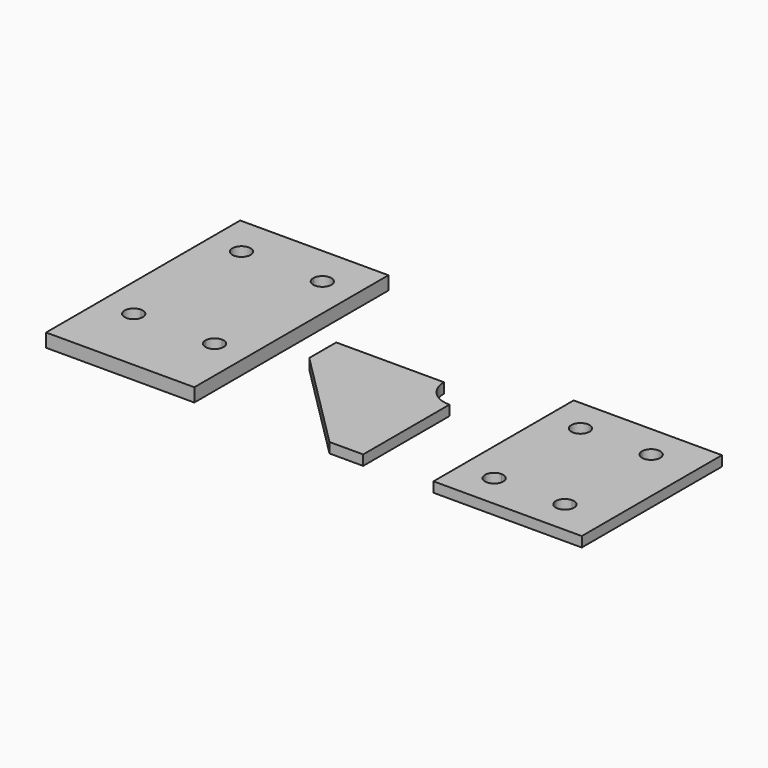
from build123d import *

# Parameters (mm, degrees)
F1_DEPTH = 20
F3_DEPTH = 15


with BuildPart() as f1:
    # F0 (on Top) → F1 (new body)
    with BuildSketch(Plane.XY):
        Polygon((-65.4414370656, 394.4187095761), (-65.4414370656, 34.4187095761), (-15.4414370656, 34.4187095761), (154.5585629344, 34.4187095761), (154.5585629344, 394.4187095761), align=None)
        with BuildLine():
            Line((91.0585629344, 134.4187095761), (-1.9414370656, 134.4187095761))
            ThreePointArc((-1.9414370656, 134.4187095761), (-24.9873786116, 124.8727680301), (-15.4414370656, 147.9187095761))
            Line((-15.4414370656, 147.9187095761), (-15.4414370656, 320.9187095761))
            ThreePointArc((-15.4414370656, 320.9187095761), (-24.9873786116, 343.9646511221), (-1.9414370656, 334.4187095761))
            Line((-1.9414370656, 334.4187095761), (91.0585629344, 334.4187095761))
            ThreePointArc((91.0585629344, 334.4187095761), (104.5585629344, 347.9187095761), (118.0585629344, 334.4187095761))
            ThreePointArc((118.0585629344, 334.4187095761), (114.1045044804, 324.8727680301), (104.5585629344, 320.9187095761))
            Line((104.5585629344, 320.9187095761), (104.5585629344, 147.9187095761))
            ThreePointArc((104.5585629344, 147.9187095761), (114.1045044804, 143.9646511221), (118.0585629344, 134.4187095761))
            ThreePointArc((118.0585629344, 134.4187095761), (104.5585629344, 120.9187095761), (91.0585629344, 134.4187095761))
        make_face(mode=Mode.SUBTRACT)
        with BuildLine():
            ThreePointArc((-15.4414370656, 147.9187095761), (-5.8954955196, 143.9646511221), (-1.9414370656, 134.4187095761))
            Line((-1.9414370656, 134.4187095761), (91.0585629344, 134.4187095761))
            ThreePointArc((91.0585629344, 134.4187095761), (95.0126213884, 143.9646511221), (104.5585629344, 147.9187095761))
            Line((104.5585629344, 147.9187095761), (104.5585629344, 320.9187095761))
            ThreePointArc((104.5585629344, 320.9187095761), (95.0126213884, 324.8727680301), (91.0585629344, 334.4187095761))
            Line((91.0585629344, 334.4187095761), (-1.9414370656, 334.4187095761))
            ThreePointArc((-1.9414370656, 334.4187095761), (-5.8954955196, 324.8727680301), (-15.4414370656, 320.9187095761))
            Line((-15.4414370656, 320.9187095761), (-15.4414370656, 147.9187095761))
        make_face()
    extrude(amount=F1_DEPTH)


with BuildPart() as f3:
    # F2 (on Top) → F3 (new body)
    with BuildSketch(Plane.XY):
        with BuildLine():
            Line((206.6609114408, 182.4657000601), (356.6609114408, 32.4657000601))
            Line((356.6609114408, 32.4657000601), (406.6609114408, 32.4657000601))
            Line((406.6609114408, 32.4657000601), (406.6609114408, 192.4657000601))
            ThreePointArc((406.6609114408, 192.4657000601), (378.3766401934, 204.1814288127), (366.6609114408, 232.4657000601))
            Line((366.6609114408, 232.4657000601), (206.6609114408, 232.4657000601))
            Line((206.6609114408, 232.4657000601), (206.6609114408, 182.4657000601))
        make_face()
    extrude(amount=F3_DEPTH)


with BuildPart() as f3b:
    # F2 (on Top) → F3, piece 2 (new body)
    with BuildSketch(Plane.XY):
        with BuildLine():
            ThreePointArc((562.4129056931, 94.2423118502), (571.9588472391, 90.2882533962), (575.9129056931, 80.7423118502))
            Line((575.9129056931, 80.7423118502), (653.9129056931, 80.7423118502))
            ThreePointArc((653.9129056931, 80.7423118502), (657.866964147, 90.2882533962), (667.4129056931, 94.2423118502))
            Line((667.4129056931, 94.2423118502), (667.4129056931, 227.2423118502))
            ThreePointArc((667.4129056931, 227.2423118502), (657.866964147, 231.1963703042), (653.9129056931, 240.7423118502))
            Line((653.9129056931, 240.7423118502), (575.9129056931, 240.7423118502))
            ThreePointArc((575.9129056931, 240.7423118502), (571.9588472391, 231.1963703042), (562.4129056931, 227.2423118502))
            Line((562.4129056931, 227.2423118502), (562.4129056931, 94.2423118502))
        make_face()
        with BuildLine():
            Line((562.4129056931, 67.2423118502), (562.4129056931, 30.7423118502))
            Line((562.4129056931, 30.7423118502), (732.4129056931, 30.7423118502))
            Line((732.4129056931, 30.7423118502), (732.4129056931, 290.7423118502))
            Line((732.4129056931, 290.7423118502), (512.4129056931, 290.7423118502))
            Line((512.4129056931, 290.7423118502), (512.4129056931, 80.7423118502))
            Line((512.4129056931, 80.7423118502), (548.9129056931, 80.7423118502))
            ThreePointArc((548.9129056931, 80.7423118502), (552.866964147, 90.2882533962), (562.4129056931, 94.2423118502))
            Line((562.4129056931, 94.2423118502), (562.4129056931, 227.2423118502))
            ThreePointArc((562.4129056931, 227.2423118502), (552.866964147, 250.2882533962), (575.9129056931, 240.7423118502))
            Line((575.9129056931, 240.7423118502), (653.9129056931, 240.7423118502))
            ThreePointArc((653.9129056931, 240.7423118502), (667.4129056931, 254.2423118502), (680.9129056931, 240.7423118502))
            ThreePointArc((680.9129056931, 240.7423118502), (676.9588472391, 231.1963703042), (667.4129056931, 227.2423118502))
            Line((667.4129056931, 227.2423118502), (667.4129056931, 94.2423118502))
            ThreePointArc((667.4129056931, 94.2423118502), (676.9588472391, 90.2882533962), (680.9129056931, 80.7423118502))
            ThreePointArc((680.9129056931, 80.7423118502), (667.4129056931, 67.2423118502), (653.9129056931, 80.7423118502))
            Line((653.9129056931, 80.7423118502), (575.9129056931, 80.7423118502))
            ThreePointArc((575.9129056931, 80.7423118502), (571.9588472391, 71.1963703042), (562.4129056931, 67.2423118502))
        make_face()
        with BuildLine():
            Line((512.4129056931, 80.7423118502), (512.4129056931, 30.7423118502))
            Line((512.4129056931, 30.7423118502), (562.4129056931, 30.7423118502))
            Line((562.4129056931, 30.7423118502), (562.4129056931, 67.2423118502))
            ThreePointArc((562.4129056931, 67.2423118502), (552.866964147, 71.1963703042), (548.9129056931, 80.7423118502))
            Line((548.9129056931, 80.7423118502), (512.4129056931, 80.7423118502))
        make_face()
    extrude(amount=F3_DEPTH)


solid = Compound([f1.part, f3.part, f3b.part])
